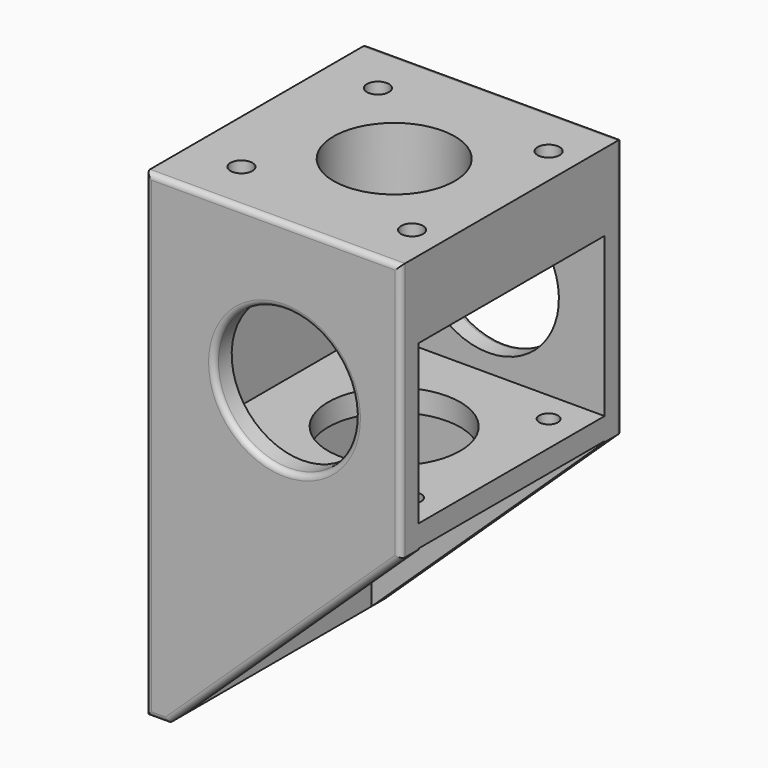
from build123d import *

# Parameters (mm, degrees)
SKETCH029_W     = 42.3
SKETCH029_H     = 87
PAD013_DEPTH    = 4
SKETCH030_W     = 42.3
SKETCH030_H     = 4
SKETCH030_H_2   = 14
PAD014_DEPTH    = 42.3
SKETCH032_R     = 11
POCKET013_DEPTH = 14
SKETCH031_R     = 1.7
SKETCH031_R_2   = 12
POCKET014_DEPTH = 5
SKETCH033_W     = 87
SKETCH033_H     = 46.3
PAD015_DEPTH    = 4
SKETCH034_W     = 87
SKETCH034_H     = 46.3
PAD016_DEPTH    = 4
SKETCH035_R     = 2
POCKET015_DEPTH = 14
POCKET016_DEPTH = 51
SKETCH037_R     = 12.795503
POCKET017_DEPTH = 51
SKETCH038_R     = 2
POCKET018_DEPTH = 5
FILLET002_R     = 1


with BuildPart() as part:
    # Sketch029 → Pad013 (new body)
    with BuildSketch(Plane.YZ):
        with Locations((0, 43.5)):
            Rectangle(SKETCH029_W, SKETCH029_H)
    extrude(amount=PAD013_DEPTH)

    # Sketch030 (on Face6 of Pad013) → Pad014 (join)
    with BuildSketch(Plane.YZ.offset(4)):
        with Locations((0, 42.178345)):
            Rectangle(SKETCH030_W, SKETCH030_H)
        with Locations((0, 80)):
            Rectangle(SKETCH030_W, SKETCH030_H_2)
    extrude(amount=PAD014_DEPTH)

    # Sketch032 (on Face13 of Pad014) → Pocket013 (cut)
    with BuildSketch(Plane(origin=(0, 0, 87), x_dir=(0, -1, 0), z_dir=(0, 0, 1))):
        with Locations((0, 25)):
            Circle(SKETCH032_R)
    extrude(amount=-POCKET013_DEPTH, mode=Mode.SUBTRACT)

    # Sketch031 (on Face12 of Pad014) → Pocket014 (cut)
    with BuildSketch(Plane.YX.offset(-40.178345)):
        with Locations((-15.5, 40.65)):
            Circle(SKETCH031_R)
        with Locations((15.5, 40.65)):
            Circle(SKETCH031_R)
        with Locations((15.5, 9.65)):
            Circle(SKETCH031_R)
        with Locations((-15.5, 9.65)):
            Circle(SKETCH031_R)
        with Locations((0, 25)):
            Circle(SKETCH031_R_2)
    extrude(amount=-POCKET014_DEPTH, mode=Mode.SUBTRACT)

    # Sketch033 (on Face3 of Pocket014) → Pad015 (join)
    with BuildSketch(Plane.ZX.offset(21.15)):
        with Locations((43.5, 23.15)):
            Rectangle(SKETCH033_W, SKETCH033_H)
    extrude(amount=PAD015_DEPTH)

    # Sketch034 (on Face2 of Pad015) → Pad016 (join)
    with BuildSketch(Plane(origin=(0, -21.15, 0), x_dir=(0, 0, -1), z_dir=(0, -1, 0))):
        with Locations((-43.5, 23.15)):
            Rectangle(SKETCH034_W, SKETCH034_H)
    extrude(amount=PAD016_DEPTH)

    # Sketch035 (on Face22 of Pad016) → Pocket015 (cut)
    with BuildSketch(Plane(origin=(0, 0, 87), x_dir=(0, -1, 0), z_dir=(0, 0, 1))):
        with Locations((-15.5, 40.65)):
            Circle(SKETCH035_R)
        with Locations((15.5, 40.65)):
            Circle(SKETCH035_R)
        with Locations((15.5, 9.65)):
            Circle(SKETCH035_R)
        with Locations((-15.5, 9.65)):
            Circle(SKETCH035_R)
    extrude(amount=-POCKET015_DEPTH, mode=Mode.SUBTRACT)

    # Sketch036 (on Face13 of Pocket015) → Pocket016 (cut)
    with BuildSketch(Plane.ZX.offset(25.15)):
        Polygon((0, 4), (40, 46.3), (0, 46.3), align=None)
    extrude(amount=-POCKET016_DEPTH, mode=Mode.SUBTRACT)

    # Sketch037 (on Face7 of Pocket016) → Pocket017 (cut)
    with BuildSketch(Plane(origin=(0, -25.15, 0), x_dir=(0, 0, -1), z_dir=(0, -1, 0))):
        with Locations((-60.230976, 25.198834)):
            Circle(SKETCH037_R)
    extrude(amount=-POCKET017_DEPTH, mode=Mode.SUBTRACT)

    # Sketch038 → Pocket018 (cut)
    with BuildSketch(Plane.YZ.offset(4)):
        with Locations((-15.828298, 68.323807)):
            Circle(SKETCH038_R)
        with Locations((15.828298, 68.323807)):
            Circle(SKETCH038_R)
        with Locations((-15.828298, 49.17934)):
            Circle(SKETCH038_R)
        with Locations((15.828298, 49.17934)):
            Circle(SKETCH038_R)
    extrude(amount=-POCKET018_DEPTH, mode=Mode.SUBTRACT)

    # Fillet002
    fillet002_edges = [part.edges().sort_by_distance(p)[0] for p in [
        (2, -25.15, 0),
        (25.15, -25.15, 20),
        (0, -25.15, 43.5),
        (46.3, -25.15, 63.5),
        (23.15, -25.15, 87),
        (25.198834, -25.15, 73.026479),
        (2, 25.15, 0),
        (25.15, 25.15, 20),
        (0, 25.15, 43.5),
        (46.3, 25.15, 63.5),
        (23.15, 25.15, 87),
        (25.198834, 25.15, 73.026479),
    ]]
    fillet(fillet002_edges, radius=FILLET002_R)


with BuildPart() as part_1:
    # Body013 placement: moved
    add(part.part.moved(Location((-25, 0, 0))))


solid = part_1.part
